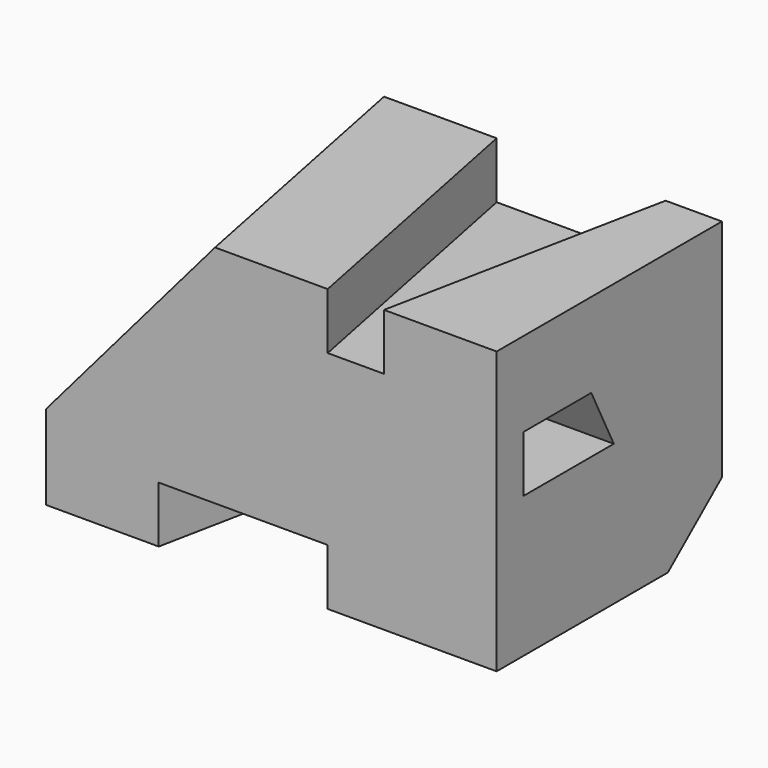
from build123d import *

# Parameters (mm, degrees)
F0_W     = 80
F0_H     = 50
F1_DEPTH = 50
F3_DEPTH = 10
F5_DEPTH = 10
F7_DEPTH = 25
F9_DEPTH = 25


with BuildPart() as f1:
    # F0 (on Front) → F1 (new body)
    with BuildSketch(Plane.XZ):
        with Locations((-40, 25)):
            Rectangle(F0_W, F0_H)
    extrude(amount=F1_DEPTH)

    # F2 (on face) → F3 (cut)
    with BuildSketch(Plane(origin=(0, 0, 0), x_dir=(1, 0, 0), z_dir=(0, 0, -1))):
        Polygon((-30, 50), (-60, 50), (-50, 0), (-40, 0), align=None)
    extrude(amount=-F3_DEPTH, mode=Mode.SUBTRACT)

    # F4 (on face) → F5 (cut)
    with BuildSketch(Plane.XY.offset(50)):
        Polygon((-40, 0), (-30, -50), (-20, -50), (-10, 0), align=None)
    extrude(amount=-F5_DEPTH, mode=Mode.SUBTRACT)

    # F6 (on face) → F7 (cut)
    with BuildSketch(Plane.YZ):
        Polygon((-29, 35), (-44, 35), (-44, 25), (-24, 25), align=None)
    extrude(amount=-F7_DEPTH, mode=Mode.SUBTRACT)

    # F8 (on face) → F9 (cut)
    with BuildSketch(Plane.YZ):
        Polygon((0, 10), (-12, 0), (0, 0), align=None)
    extrude(amount=-F9_DEPTH, mode=Mode.SUBTRACT)

    # F13: sweep along a path in F12
    with BuildLine(Plane.XY.offset(50)) as f13_path:
        Line((-60, 0), (-50, -50))
    # F10 (on face) → F13 (sweep, cut)
    with BuildSketch(Plane.XZ.offset(50)):
        Polygon((-50, 50), (-80, 50), (-80, 15), align=None)
    sweep(path=f13_path.line, mode=Mode.SUBTRACT)


solid = f1.part
